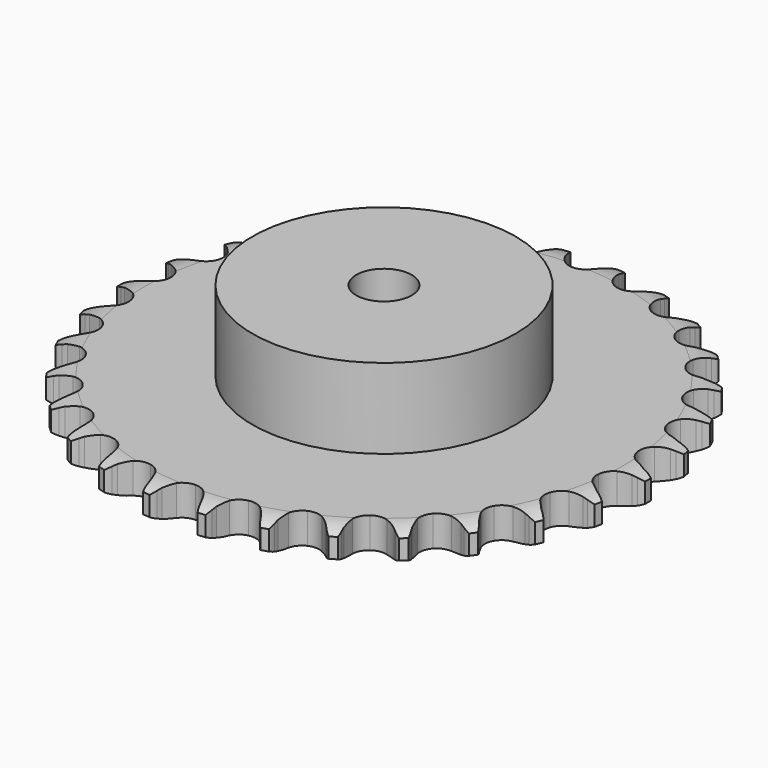
from build123d import *

# Parameters (mm, degrees)
PAD_DEPTH         = 11.1
SKETCH001_R       = 47.5
PAD001_DEPTH      = 40
SKETCH002_R       = 10
POCKET_DEPTH      = 0.001
POCKET_DEPTH_BACK = 40.001


with BuildPart() as part:
    # Sprocket → Pad (new body)
    with BuildSketch(Plane.XY):
        with BuildLine():
            ThreePointArc((-10.155366, 96.621854), (-8.659477, 94.892726), (-7.602598, 92.86527))
            Line((-7.602598, 92.86527), (-7.014029, 91.321265))
            ThreePointArc((-7.014029, 91.321265), (-6.080629, 89.310426), (-4.874292, 87.450463))
            ThreePointArc((-4.874292, 87.450463), (-2.723268, 85.661475), (0, 85.020231))
            ThreePointArc((0, 85.020231), (2.723268, 85.661475), (4.874292, 87.450463))
            ThreePointArc((4.874292, 87.450463), (6.080629, 89.310426), (7.014029, 91.321265))
            Line((7.014029, 91.321265), (7.602598, 92.86527))
            ThreePointArc((7.602598, 92.86527), (8.659477, 94.892726), (10.155366, 96.621854))
            ThreePointArc((10.155366, 96.621854), (11.259061, 94.619499), (11.871312, 92.41661))
            Line((11.871312, 92.41661), (12.126003, 90.783975))
            ThreePointArc((12.126003, 90.783975), (12.62093, 88.623013), (13.414196, 86.552883))
            ThreePointArc((13.414196, 86.552883), (15.146264, 84.355766), (17.6767, 83.162335))
            ThreePointArc((17.6767, 83.162335), (20.47378, 83.223367), (22.949751, 84.526038))
            Line((22.949751, 84.526038), (25.847514, 87.867378))
            ThreePointArc((25.847514, 87.867378), (26.277674, 88.573086), (26.744239, 89.255272))
            ThreePointArc((26.744239, 89.255272), (28.199553, 91.018686), (30.02226, 92.399016))
            ThreePointArc((30.02226, 92.399016), (30.685523, 90.210945), (30.826389, 87.928901))
            Line((30.826389, 87.928901), (30.736071, 86.27899))
            ThreePointArc((30.736071, 86.27899), (30.770892, 84.062349), (31.11642, 81.872526))
            ThreePointArc((31.11642, 81.872526), (32.353832, 79.363304), (34.580843, 77.669845))
            ThreePointArc((34.580843, 77.669845), (37.32949, 77.147999), (40.022195, 77.90742))
            Line((40.022195, 77.90742), (43.551339, 80.573264))
            ThreePointArc((43.551339, 80.573264), (44.118823, 81.174116), (44.717027, 81.744391))
            ThreePointArc((44.717027, 81.744391), (46.507174, 83.166693), (48.577037, 84.137897))
            ThreePointArc((48.577037, 84.137897), (48.770881, 81.859741), (48.434205, 79.598277))
            Line((48.434205, 79.598277), (48.002824, 78.003198))
            ThreePointArc((48.002824, 78.003198), (47.57602, 75.827756), (47.458707, 73.613948))
            ThreePointArc((47.458707, 73.613948), (48.147382, 70.902286), (49.973638, 68.782811))
            ThreePointArc((49.973638, 68.782811), (52.553722, 67.700892), (55.345478, 67.883874))
            Line((55.345478, 67.883874), (59.351762, 69.757713))
            ThreePointArc((59.351762, 69.757713), (60.031769, 70.227448), (60.735467, 70.660887))
            ThreePointArc((60.735467, 70.660887), (62.782209, 71.679916), (65.008765, 72.199548))
            ThreePointArc((65.008765, 72.199548), (64.724718, 69.930873), (63.925214, 67.788826))
            Line((63.925214, 67.788826), (63.171624, 66.318293))
            ThreePointArc((63.171624, 66.318293), (62.301846, 64.279127), (61.726821, 62.138086))
            ThreePointArc((61.726821, 62.138086), (61.83666, 59.342497), (63.182344, 56.889638))
            ThreePointArc((63.182344, 56.889638), (65.481104, 55.294932), (68.249897, 54.893476))
            Line((68.249897, 54.893476), (72.558227, 55.893414))
            ThreePointArc((72.558227, 55.893414), (73.321038, 56.211503), (74.099476, 56.489163))
            ThreePointArc((74.099476, 56.489163), (76.313359, 57.060382), (78.599297, 57.105732))
            ThreePointArc((78.599297, 57.105732), (77.849773, 54.94569), (76.622384, 53.016678))
            Line((76.622384, 53.016678), (75.579521, 51.73496))
            ThreePointArc((75.579521, 51.73496), (74.304784, 49.921192), (73.297176, 47.946492))
            ThreePointArc((73.297176, 47.946492), (72.82338, 45.189157), (73.629679, 42.510115))
            ThreePointArc((73.629679, 42.510115), (75.546647, 40.472318), (78.171469, 39.503971))
            Line((78.171469, 39.503971), (82.59355, 39.586305))
            ThreePointArc((82.59355, 39.586305), (83.405826, 39.738846), (84.224982, 39.848592))
            ThreePointArc((84.224982, 39.848592), (86.50925, 39.947036), (88.754664, 39.516122))
            ThreePointArc((88.754664, 39.516122), (87.57242, 37.559117), (85.970788, 35.927447))
            Line((85.970788, 35.927447), (84.68423, 34.890561))
            ThreePointArc((84.68423, 34.890561), (83.060245, 33.381461), (81.664094, 31.659407))
            ThreePointArc((81.664094, 31.659407), (80.627368, 29.060833), (80.859044, 26.272696))
            ThreePointArc((80.859044, 26.272696), (82.31044, 23.88087), (84.676572, 22.387952))
            Line((84.676572, 22.387952), (89.019139, 21.549085))
            ThreePointArc((89.019139, 21.549085), (89.845379, 21.52941), (90.669453, 21.466446))
            ThreePointArc((90.669453, 21.466446), (92.924271, 21.087813), (95.031025, 20.199468))
            ThreePointArc((95.031025, 20.199468), (93.467732, 18.53103), (91.561857, 17.268014))
            Line((91.561857, 17.268014), (90.087832, 16.521277))
            ThreePointArc((90.087832, 16.521277), (88.185575, 15.3828), (86.461898, 13.988653))
            ThreePointArc((86.461898, 13.988653), (84.907553, 11.662412), (84.554481, 8.887034))
            ThreePointArc((84.554481, 8.887034), (85.476872, 6.245713), (87.480902, 4.293472))
            Line((87.480902, 4.293472), (91.554163, 2.570066))
            ThreePointArc((91.554163, 2.570066), (92.358258, 2.379036), (93.151233, 2.146114))
            ThreePointArc((93.151233, 2.146114), (95.278056, 1.306952), (97.154075, 0))
            ThreePointArc((97.154075, 0), (95.278056, -1.306952), (93.151233, -2.146114))
            Line((93.151233, -2.146114), (91.554163, -2.570066))
            ThreePointArc((91.554163, -2.570066), (89.456773, -3.288163), (87.480902, -4.293472))
            ThreePointArc((87.480902, -4.293472), (85.476872, -6.245713), (84.554481, -8.887034))
            ThreePointArc((84.554481, -8.887034), (84.907553, -11.662412), (86.461898, -13.988653))
            Line((86.461898, -13.988653), (90.087832, -16.521277))
            ThreePointArc((90.087832, -16.521277), (90.834638, -16.875313), (91.561857, -17.268014))
            ThreePointArc((91.561857, -17.268014), (93.467732, -18.53103), (95.031025, -20.199468))
            ThreePointArc((95.031025, -20.199468), (92.924271, -21.087813), (90.669453, -21.466446))
            Line((90.669453, -21.466446), (89.019139, -21.549085))
            ThreePointArc((89.019139, -21.549085), (86.81828, -21.815418), (84.676572, -22.387952))
            ThreePointArc((84.676572, -22.387952), (82.31044, -23.88087), (80.859044, -26.272696))
            ThreePointArc((80.859044, -26.272696), (80.627368, -29.060833), (81.664094, -31.659407))
            Line((81.664094, -31.659407), (84.68423, -34.890561))
            ThreePointArc((84.68423, -34.890561), (85.341109, -35.39213), (85.970788, -35.927447))
            ThreePointArc((85.970788, -35.927447), (87.57242, -37.559117), (88.754664, -39.516122))
            ThreePointArc((88.754664, -39.516122), (86.50925, -39.947036), (84.224982, -39.848592))
            Line((84.224982, -39.848592), (82.59355, -39.586305))
            ThreePointArc((82.59355, -39.586305), (80.385412, -39.389234), (78.171469, -39.503971))
            ThreePointArc((78.171469, -39.503971), (75.546647, -40.472318), (73.629679, -42.510115))
            ThreePointArc((73.629679, -42.510115), (72.82338, -45.189157), (73.297176, -47.946492))
            Line((73.297176, -47.946492), (75.579521, -51.73496))
            ThreePointArc((75.579521, -51.73496), (76.117763, -52.362141), (76.622384, -53.016678))
            ThreePointArc((76.622384, -53.016678), (77.849773, -54.94569), (78.599297, -57.105732))
            ThreePointArc((78.599297, -57.105732), (76.313359, -57.060382), (74.099476, -56.489163))
            Line((74.099476, -56.489163), (72.558227, -55.893414))
            ThreePointArc((72.558227, -55.893414), (70.439316, -55.241552), (68.249897, -54.893476))
            ThreePointArc((68.249897, -54.893476), (65.481104, -55.294932), (63.182344, -56.889638))
            ThreePointArc((63.182344, -56.889638), (61.83666, -59.342497), (61.726821, -62.138086))
            Line((61.726821, -62.138086), (63.171624, -66.318293))
            ThreePointArc((63.171624, -66.318293), (63.567706, -67.043676), (63.925214, -67.788826))
            ThreePointArc((63.925214, -67.788826), (64.724718, -69.930873), (65.008765, -72.199548))
            ThreePointArc((65.008765, -72.199548), (62.782209, -71.679916), (60.735467, -70.660887))
            Line((60.735467, -70.660887), (59.351762, -69.757713))
            ThreePointArc((59.351762, -69.757713), (57.414683, -68.679549), (55.345478, -67.883874))
            ThreePointArc((55.345478, -67.883874), (52.553722, -67.700892), (49.973638, -68.782811))
            ThreePointArc((49.973638, -68.782811), (48.147382, -70.902286), (47.458707, -73.613948))
            Line((47.458707, -73.613948), (48.002824, -78.003198))
            ThreePointArc((48.002824, -78.003198), (48.239435, -78.79508), (48.434205, -79.598277))
            ThreePointArc((48.434205, -79.598277), (48.770881, -81.859741), (48.577037, -84.137897))
            ThreePointArc((48.577037, -84.137897), (46.507174, -83.166693), (44.717027, -81.744391))
            Line((44.717027, -81.744391), (43.551339, -80.573264))
            ThreePointArc((43.551339, -80.573264), (41.880753, -79.11592), (40.022195, -77.90742))
            ThreePointArc((40.022195, -77.90742), (37.32949, -77.147999), (34.580843, -77.669845))
            ThreePointArc((34.580843, -77.669845), (32.353832, -79.363304), (31.11642, -81.872526))
            Line((31.11642, -81.872526), (30.736071, -86.27899))
            ThreePointArc((30.736071, -86.27899), (30.802869, -87.102761), (30.826389, -87.928901))
            ThreePointArc((30.826389, -87.928901), (30.685523, -90.210945), (30.02226, -92.399016))
            ThreePointArc((30.02226, -92.399016), (28.199553, -91.018686), (26.744239, -89.255272))
            Line((26.744239, -89.255272), (25.847514, -87.867378))
            ThreePointArc((25.847514, -87.867378), (24.516434, -86.094545), (22.949751, -84.526038))
            ThreePointArc((22.949751, -84.526038), (20.47378, -83.223367), (17.6767, -83.162335))
            ThreePointArc((17.6767, -83.162335), (15.146264, -84.355766), (13.414196, -86.552883))
            Line((13.414196, -86.552883), (12.126003, -90.783975))
            ThreePointArc((12.126003, -90.783975), (12.02007, -91.603633), (11.871312, -92.41661))
            ThreePointArc((11.871312, -92.41661), (11.259061, -94.619499), (10.155366, -96.621854))
            ThreePointArc((10.155366, -96.621854), (8.659477, -94.892726), (7.602598, -92.86527))
            Line((7.602598, -92.86527), (7.014029, -91.321265))
            ThreePointArc((7.014029, -91.321265), (6.080629, -89.310426), (4.874292, -87.450463))
            ThreePointArc((4.874292, -87.450463), (2.723268, -85.661475), (0, -85.020231))
            ThreePointArc((0, -85.020231), (-2.723268, -85.661475), (-4.874292, -87.450463))
            Line((-4.874292, -87.450463), (-7.014029, -91.321265))
            ThreePointArc((-7.014029, -91.321265), (-7.288063, -92.100987), (-7.602598, -92.86527))
            ThreePointArc((-7.602598, -92.86527), (-8.659477, -94.892726), (-10.155366, -96.621854))
            ThreePointArc((-10.155366, -96.621854), (-11.259061, -94.619499), (-11.871312, -92.41661))
            Line((-11.871312, -92.41661), (-12.126003, -90.783975))
            ThreePointArc((-12.126003, -90.783975), (-12.62093, -88.623013), (-13.414196, -86.552883))
            ThreePointArc((-13.414196, -86.552883), (-15.146264, -84.355766), (-17.6767, -83.162335))
            ThreePointArc((-17.6767, -83.162335), (-20.47378, -83.223367), (-22.949751, -84.526038))
            Line((-22.949751, -84.526038), (-25.847514, -87.867378))
            ThreePointArc((-25.847514, -87.867378), (-26.277674, -88.573086), (-26.744239, -89.255272))
            ThreePointArc((-26.744239, -89.255272), (-28.199553, -91.018686), (-30.02226, -92.399016))
            ThreePointArc((-30.02226, -92.399016), (-30.685523, -90.210945), (-30.826389, -87.928901))
            Line((-30.826389, -87.928901), (-30.736071, -86.27899))
            ThreePointArc((-30.736071, -86.27899), (-30.770892, -84.062349), (-31.11642, -81.872526))
            ThreePointArc((-31.11642, -81.872526), (-32.353832, -79.363304), (-34.580843, -77.669845))
            ThreePointArc((-34.580843, -77.669845), (-37.32949, -77.147999), (-40.022195, -77.90742))
            Line((-40.022195, -77.90742), (-43.551339, -80.573264))
            ThreePointArc((-43.551339, -80.573264), (-44.118823, -81.174116), (-44.717027, -81.744391))
            ThreePointArc((-44.717027, -81.744391), (-46.507174, -83.166693), (-48.577037, -84.137897))
            ThreePointArc((-48.577037, -84.137897), (-48.770881, -81.859741), (-48.434205, -79.598277))
            Line((-48.434205, -79.598277), (-48.002824, -78.003198))
            ThreePointArc((-48.002824, -78.003198), (-47.57602, -75.827756), (-47.458707, -73.613948))
            ThreePointArc((-47.458707, -73.613948), (-48.147382, -70.902286), (-49.973638, -68.782811))
            ThreePointArc((-49.973638, -68.782811), (-52.553722, -67.700892), (-55.345478, -67.883874))
            Line((-55.345478, -67.883874), (-59.351762, -69.757713))
            ThreePointArc((-59.351762, -69.757713), (-60.031769, -70.227448), (-60.735467, -70.660887))
            ThreePointArc((-60.735467, -70.660887), (-62.782209, -71.679916), (-65.008765, -72.199548))
            ThreePointArc((-65.008765, -72.199548), (-64.724718, -69.930873), (-63.925214, -67.788826))
            Line((-63.925214, -67.788826), (-63.171624, -66.318293))
            ThreePointArc((-63.171624, -66.318293), (-62.301846, -64.279127), (-61.726821, -62.138086))
            ThreePointArc((-61.726821, -62.138086), (-61.83666, -59.342497), (-63.182344, -56.889638))
            ThreePointArc((-63.182344, -56.889638), (-65.481104, -55.294932), (-68.249897, -54.893476))
            Line((-68.249897, -54.893476), (-72.558227, -55.893414))
            ThreePointArc((-72.558227, -55.893414), (-73.321038, -56.211503), (-74.099476, -56.489163))
            ThreePointArc((-74.099476, -56.489163), (-76.313359, -57.060382), (-78.599297, -57.105732))
            ThreePointArc((-78.599297, -57.105732), (-77.849773, -54.94569), (-76.622384, -53.016678))
            Line((-76.622384, -53.016678), (-75.579521, -51.73496))
            ThreePointArc((-75.579521, -51.73496), (-74.304784, -49.921192), (-73.297176, -47.946492))
            ThreePointArc((-73.297176, -47.946492), (-72.82338, -45.189157), (-73.629679, -42.510115))
            ThreePointArc((-73.629679, -42.510115), (-75.546647, -40.472318), (-78.171469, -39.503971))
            Line((-78.171469, -39.503971), (-82.59355, -39.586305))
            ThreePointArc((-82.59355, -39.586305), (-83.405826, -39.738846), (-84.224982, -39.848592))
            ThreePointArc((-84.224982, -39.848592), (-86.50925, -39.947036), (-88.754664, -39.516122))
            ThreePointArc((-88.754664, -39.516122), (-87.57242, -37.559117), (-85.970788, -35.927447))
            Line((-85.970788, -35.927447), (-84.68423, -34.890561))
            ThreePointArc((-84.68423, -34.890561), (-83.060245, -33.381461), (-81.664094, -31.659407))
            ThreePointArc((-81.664094, -31.659407), (-80.627368, -29.060833), (-80.859044, -26.272696))
            ThreePointArc((-80.859044, -26.272696), (-82.31044, -23.88087), (-84.676572, -22.387952))
            Line((-84.676572, -22.387952), (-89.019139, -21.549085))
            ThreePointArc((-89.019139, -21.549085), (-89.845379, -21.52941), (-90.669453, -21.466446))
            ThreePointArc((-90.669453, -21.466446), (-92.924271, -21.087813), (-95.031025, -20.199468))
            ThreePointArc((-95.031025, -20.199468), (-93.467732, -18.53103), (-91.561857, -17.268014))
            Line((-91.561857, -17.268014), (-90.087832, -16.521277))
            ThreePointArc((-90.087832, -16.521277), (-88.185575, -15.3828), (-86.461898, -13.988653))
            ThreePointArc((-86.461898, -13.988653), (-84.907553, -11.662412), (-84.554481, -8.887034))
            ThreePointArc((-84.554481, -8.887034), (-85.476872, -6.245713), (-87.480902, -4.293472))
            Line((-87.480902, -4.293472), (-91.554163, -2.570066))
            ThreePointArc((-91.554163, -2.570066), (-92.358258, -2.379036), (-93.151233, -2.146114))
            ThreePointArc((-93.151233, -2.146114), (-95.278056, -1.306952), (-97.154075, 0))
            ThreePointArc((-97.154075, 0), (-95.278056, 1.306952), (-93.151233, 2.146114))
            Line((-93.151233, 2.146114), (-91.554163, 2.570066))
            ThreePointArc((-91.554163, 2.570066), (-89.456773, 3.288163), (-87.480902, 4.293472))
            ThreePointArc((-87.480902, 4.293472), (-85.476872, 6.245713), (-84.554481, 8.887034))
            ThreePointArc((-84.554481, 8.887034), (-84.907553, 11.662412), (-86.461898, 13.988653))
            Line((-86.461898, 13.988653), (-90.087832, 16.521277))
            ThreePointArc((-90.087832, 16.521277), (-90.834638, 16.875313), (-91.561857, 17.268014))
            ThreePointArc((-91.561857, 17.268014), (-93.467732, 18.53103), (-95.031025, 20.199468))
            ThreePointArc((-95.031025, 20.199468), (-92.924271, 21.087813), (-90.669453, 21.466446))
            Line((-90.669453, 21.466446), (-89.019139, 21.549085))
            ThreePointArc((-89.019139, 21.549085), (-86.81828, 21.815418), (-84.676572, 22.387952))
            ThreePointArc((-84.676572, 22.387952), (-82.31044, 23.88087), (-80.859044, 26.272696))
            ThreePointArc((-80.859044, 26.272696), (-80.627368, 29.060833), (-81.664094, 31.659407))
            Line((-81.664094, 31.659407), (-84.68423, 34.890561))
            ThreePointArc((-84.68423, 34.890561), (-85.341109, 35.39213), (-85.970788, 35.927447))
            ThreePointArc((-85.970788, 35.927447), (-87.57242, 37.559117), (-88.754664, 39.516122))
            ThreePointArc((-88.754664, 39.516122), (-86.50925, 39.947036), (-84.224982, 39.848592))
            Line((-84.224982, 39.848592), (-82.59355, 39.586305))
            ThreePointArc((-82.59355, 39.586305), (-80.385412, 39.389234), (-78.171469, 39.503971))
            ThreePointArc((-78.171469, 39.503971), (-75.546647, 40.472318), (-73.629679, 42.510115))
            ThreePointArc((-73.629679, 42.510115), (-72.82338, 45.189157), (-73.297176, 47.946492))
            Line((-73.297176, 47.946492), (-75.579521, 51.73496))
            ThreePointArc((-75.579521, 51.73496), (-76.117763, 52.362141), (-76.622384, 53.016678))
            ThreePointArc((-76.622384, 53.016678), (-77.849773, 54.94569), (-78.599297, 57.105732))
            ThreePointArc((-78.599297, 57.105732), (-76.313359, 57.060382), (-74.099476, 56.489163))
            Line((-74.099476, 56.489163), (-72.558227, 55.893414))
            ThreePointArc((-72.558227, 55.893414), (-70.439316, 55.241552), (-68.249897, 54.893476))
            ThreePointArc((-68.249897, 54.893476), (-65.481104, 55.294932), (-63.182344, 56.889638))
            ThreePointArc((-63.182344, 56.889638), (-61.83666, 59.342497), (-61.726821, 62.138086))
            Line((-61.726821, 62.138086), (-63.171624, 66.318293))
            ThreePointArc((-63.171624, 66.318293), (-63.567706, 67.043676), (-63.925214, 67.788826))
            ThreePointArc((-63.925214, 67.788826), (-64.724718, 69.930873), (-65.008765, 72.199548))
            ThreePointArc((-65.008765, 72.199548), (-62.782209, 71.679916), (-60.735467, 70.660887))
            Line((-60.735467, 70.660887), (-59.351762, 69.757713))
            ThreePointArc((-59.351762, 69.757713), (-57.414683, 68.679549), (-55.345478, 67.883874))
            ThreePointArc((-55.345478, 67.883874), (-52.553722, 67.700892), (-49.973638, 68.782811))
            ThreePointArc((-49.973638, 68.782811), (-48.147382, 70.902286), (-47.458707, 73.613948))
            Line((-47.458707, 73.613948), (-48.002824, 78.003198))
            ThreePointArc((-48.002824, 78.003198), (-48.239435, 78.79508), (-48.434205, 79.598277))
            ThreePointArc((-48.434205, 79.598277), (-48.770881, 81.859741), (-48.577037, 84.137897))
            ThreePointArc((-48.577037, 84.137897), (-46.507174, 83.166693), (-44.717027, 81.744391))
            Line((-44.717027, 81.744391), (-43.551339, 80.573264))
            ThreePointArc((-43.551339, 80.573264), (-41.880753, 79.11592), (-40.022195, 77.90742))
            ThreePointArc((-40.022195, 77.90742), (-37.32949, 77.147999), (-34.580843, 77.669845))
            ThreePointArc((-34.580843, 77.669845), (-32.353832, 79.363304), (-31.11642, 81.872526))
            Line((-31.11642, 81.872526), (-30.736071, 86.27899))
            ThreePointArc((-30.736071, 86.27899), (-30.802869, 87.102761), (-30.826389, 87.928901))
            ThreePointArc((-30.826389, 87.928901), (-30.685523, 90.210945), (-30.02226, 92.399016))
            ThreePointArc((-30.02226, 92.399016), (-28.199553, 91.018686), (-26.744239, 89.255272))
            Line((-26.744239, 89.255272), (-25.847514, 87.867378))
            ThreePointArc((-25.847514, 87.867378), (-24.516434, 86.094545), (-22.949751, 84.526038))
            ThreePointArc((-22.949751, 84.526038), (-20.47378, 83.223367), (-17.6767, 83.162335))
            ThreePointArc((-17.6767, 83.162335), (-15.146264, 84.355766), (-13.414196, 86.552883))
            Line((-13.414196, 86.552883), (-12.126003, 90.783975))
            ThreePointArc((-12.126003, 90.783975), (-12.02007, 91.603633), (-11.871312, 92.41661))
            ThreePointArc((-11.871312, 92.41661), (-11.259061, 94.619499), (-10.155366, 96.621854))
        make_face()
    extrude(amount=PAD_DEPTH)

    # Sketch → Groove (revolve, cut)
    with BuildSketch(Plane.XZ):
        with BuildLine():
            Line((86.764719, 0), (95.25, 0))
            Line((103.735281, 0), (95.25, 0))
            Line((103.735281, 11.1), (103.735281, 0))
            Line((95.25, 11.1), (103.735281, 11.1))
            Line((86.764719, 11.1), (95.25, 11.1))
            ThreePointArc((95.25, 9.1), (91.123618, 10.593242), (86.764719, 11.1))
            Line((95.25, 2), (95.25, 9.1))
            ThreePointArc((86.764719, 0), (91.123618, 0.506758), (95.25, 2))
        make_face()
    revolve(axis=Axis((0, 0, 0), (0, 0, 1)), mode=Mode.SUBTRACT)

    # Sketch001 → Pad001 (join)
    with BuildSketch(Plane.XY):
        Circle(SKETCH001_R)
    extrude(amount=PAD001_DEPTH)

    # Sketch002 → Pocket (cut, two sides)
    with BuildSketch(Plane.XY) as pocket_sk:
        Circle(SKETCH002_R)
    extrude(amount=-POCKET_DEPTH, mode=Mode.SUBTRACT)
    extrude(pocket_sk.sketch, amount=POCKET_DEPTH_BACK, mode=Mode.SUBTRACT)


solid = part.part
